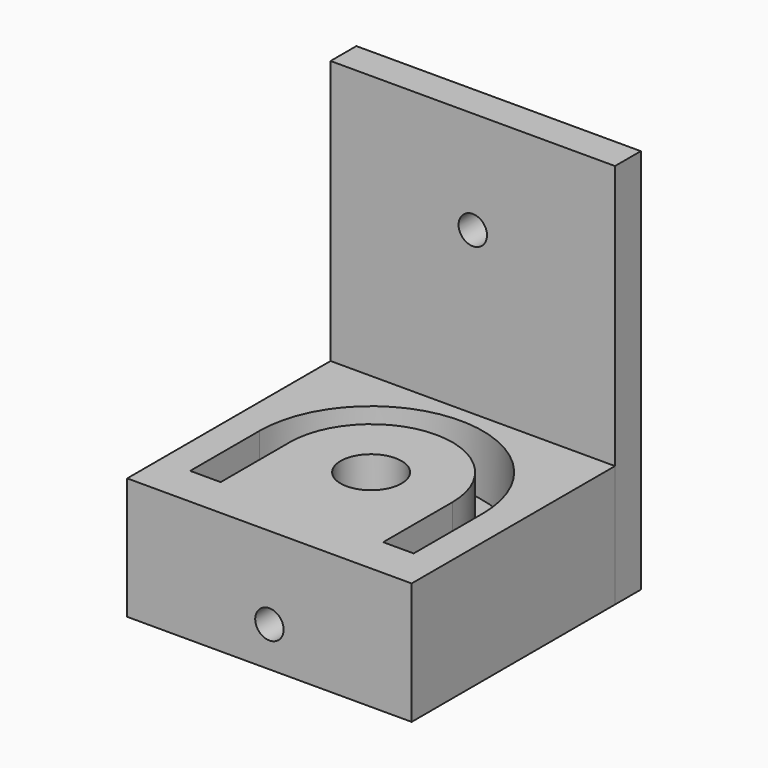
from build123d import *

# Parameters (mm, degrees)
F0_W     = 28
F0_H     = 25.025
F0_R     = 3
F1_DEPTH = 12
F2_DEPTH = 6
F0_H_2   = 3.175
F3_DEPTH = 38
F4_R     = 1.4
F5_DEPTH = 28.201


with BuildPart() as f1:
    # F0 (on Top) → F1 (new body)
    with BuildSketch(Plane.XY):
        with Locations((0, -1.5875)):
            Rectangle(F0_W, F0_H)
        with Locations((0, -1.5875)):
            Circle(F0_R, mode=Mode.SUBTRACT)
        with BuildLine():
            Line((-11, -10.1), (-11, -1.5875))
            ThreePointArc((-11, -1.5875), (0, 9.4125), (11, -1.5875))
            Line((11, -1.5875), (11, -10.1))
            Line((11, -10.1), (8, -10.1))
            Line((8, -10.1), (8, -1.5875))
            ThreePointArc((8, -1.5875), (0, 6.4125), (-8, -1.5875))
            Line((-8, -1.5875), (-8, -10.1))
            Line((-8, -10.1), (-11, -10.1))
        make_face(mode=Mode.SUBTRACT)
    extrude(amount=F1_DEPTH)

    # F0 (on Top) → F2 (join)
    with BuildSketch(Plane.XY):
        with BuildLine():
            ThreePointArc((11, -1.5875), (0, 9.4125), (-11, -1.5875))
            Line((-11, -1.5875), (-11, -10.1))
            Line((-11, -10.1), (-8, -10.1))
            Line((-8, -10.1), (-8, -1.5875))
            ThreePointArc((-8, -1.5875), (0, 6.4125), (8, -1.5875))
            Line((8, -1.5875), (8, -10.1))
            Line((8, -10.1), (11, -10.1))
            Line((11, -10.1), (11, -1.5875))
        make_face()
    extrude(amount=F2_DEPTH)


with BuildPart() as f3:
    # F0 (on Top) → F3 (new body)
    with BuildSketch(Plane.XY):
        with Locations((0, 12.5125)):
            Rectangle(F0_W, F0_H_2)
    extrude(amount=F3_DEPTH)


with BuildPart() as f5_tool:
    # F4 (on face) → F5 (new body, through all)
    with BuildSketch(Plane(origin=(0, 14.1, 0), x_dir=(-1, 0, 0), z_dir=(0, 1, 0))):
        with Locations((0, 27.9)):
            Circle(F4_R)
        with Locations((0, 3.9)):
            Circle(F4_R)
    extrude(amount=-F5_DEPTH)


with BuildPart() as f1_1:
    add(f1.part)

    # F5: cut by f5_tool
    add(f5_tool.part, mode=Mode.SUBTRACT)


with BuildPart() as f3_1:
    add(f3.part)

    # F5: cut by f5_tool
    add(f5_tool.part, mode=Mode.SUBTRACT)


solid = Compound([f1_1.part, f3_1.part])
